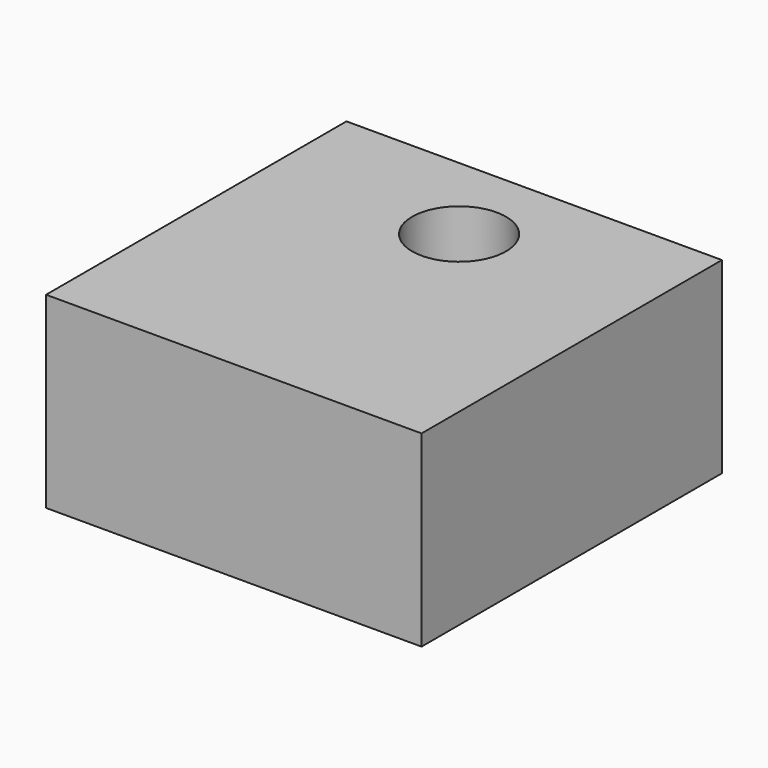
from build123d import *

# Parameters (mm, degrees)
F0_W     = 20
F0_H     = 20
F1_DEPTH = 10
F3_D     = 5
F3_DEPTH = 10
F3_TIP   = 1.5021515476


with BuildPart() as f1:
    # F0 (on Top) → F1 (new body)
    with BuildSketch(Plane.XY):
        Rectangle(F0_W, F0_H)
    extrude(amount=F1_DEPTH)

    # F3
    with Locations(Plane.XY.offset(10)):
        with Locations((0, 5)):
            Hole(F3_D / 2, depth=F3_DEPTH)
            with Locations((0, 0, -(F3_DEPTH + F3_TIP / 2))):  # 118° drill point
                Cone(0, F3_D / 2, F3_TIP, mode=Mode.SUBTRACT)


solid = f1.part
